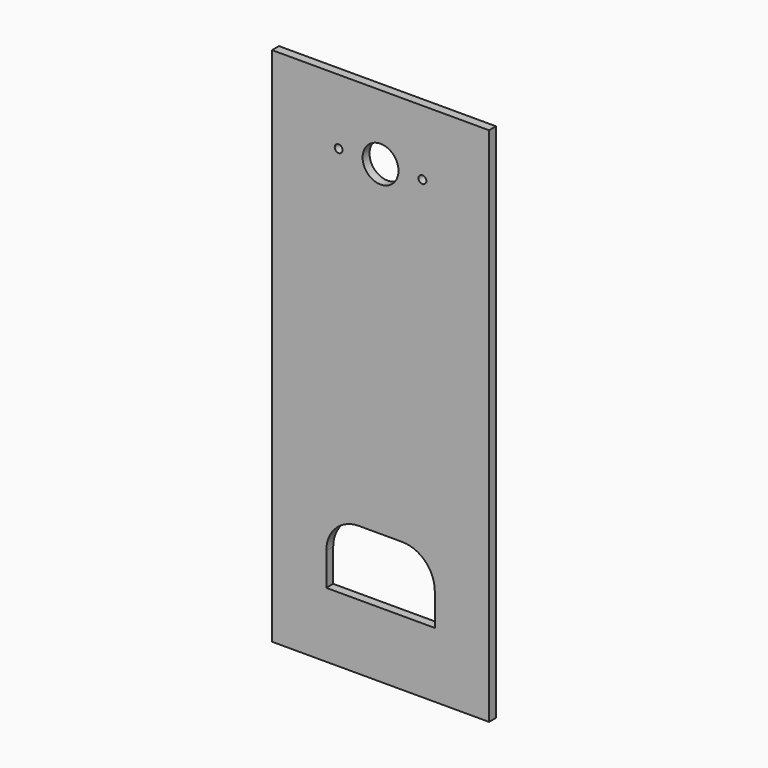
from build123d import *

# Parameters (mm, degrees)
F0_W     = 127
F0_H     = 304.8
F0_R     = 2.286
F0_R_2   = 10.50925
F1_DEPTH = 5.08


with BuildPart() as f1:
    # F0 (on Front) → F1 (new body)
    with BuildSketch(Plane.XZ):
        with Locations((63.5, -152.4)):
            Rectangle(F0_W, F0_H)
        with BuildLine():
            Line((95.25, -266.7), (31.75, -266.7))
            Line((31.75, -266.7), (31.75, -247.65))
            ThreePointArc((31.75, -247.65), (37.329616, -234.179616), (50.8, -228.6))
            Line((50.8, -228.6), (76.2, -228.6))
            ThreePointArc((76.2, -228.6), (89.670384, -234.179616), (95.25, -247.65))
            Line((95.25, -247.65), (95.25, -266.7))
        make_face(mode=Mode.SUBTRACT)
        with Locations((38.989, -38.1)):
            Circle(F0_R, mode=Mode.SUBTRACT)
        with Locations((63.5, -38.1)):
            Circle(F0_R_2, mode=Mode.SUBTRACT)
        with Locations((88.011, -38.1)):
            Circle(F0_R, mode=Mode.SUBTRACT)
    extrude(amount=F1_DEPTH)


solid = f1.part
